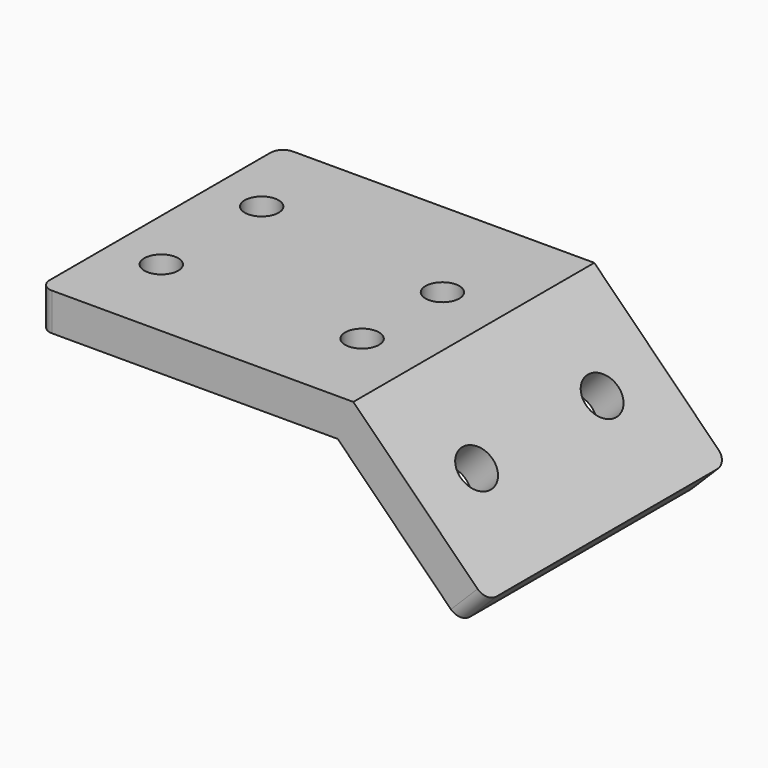
from build123d import *

# Parameters (mm, degrees)
SKETCH_W     = 25
SKETCH_H     = 24
SKETCH_R     = 1.35
PAD_DEPTH    = 3
PAD001_DEPTH = 24
SKETCH002_R  = 1.6
POCKET_DEPTH = 26.67867
FILLET_R     = 1


with BuildPart() as part:
    # Sketch → Pad (new body)
    with BuildSketch(Plane.XY):
        with Locations((12.5, 12)):
            Rectangle(SKETCH_W, SKETCH_H)
        with Locations((4.1, 17)):
            Circle(SKETCH_R, mode=Mode.SUBTRACT)
        with Locations((20.1, 15)):
            Circle(SKETCH_R, mode=Mode.SUBTRACT)
        with Locations((4.1, 7)):
            Circle(SKETCH_R, mode=Mode.SUBTRACT)
        with Locations((20.1, 7)):
            Circle(SKETCH_R, mode=Mode.SUBTRACT)
    extrude(amount=PAD_DEPTH)

    # Sketch001 (on Face3 of Pad) → Pad001 (join)
    with BuildSketch(Plane(origin=(0, 24, 0), x_dir=(-1, 0, 0), z_dir=(0, 1, 0))):
        Polygon((-25, 3), (-35.606602, -7.606602), (-33.485281, -9.727922), (-22.87868, 0.87868), align=None)
    extrude(amount=-PAD001_DEPTH)

    # Sketch002 (on Face13 of Pad001) → Pocket (cut, through all)
    with BuildSketch(Plane(origin=(14, 0, 14), x_dir=(0, 1, 0), z_dir=(0.707107, 0, 0.707107))):
        with Locations((5.7, -23)):
            Circle(SKETCH002_R)
        with Locations((18.2, -23)):
            Circle(SKETCH002_R)
    extrude(amount=-POCKET_DEPTH, mode=Mode.SUBTRACT)

    # Fillet
    fillet_edges = [part.edges().sort_by_distance(p)[0] for p in [
        (34.545942, 24, -8.667262),
        (34.545942, 0, -8.667262),
        (0, 24, 1.5),
        (0, 0, 1.5),
    ]]
    fillet(fillet_edges, radius=FILLET_R)


solid = part.part
